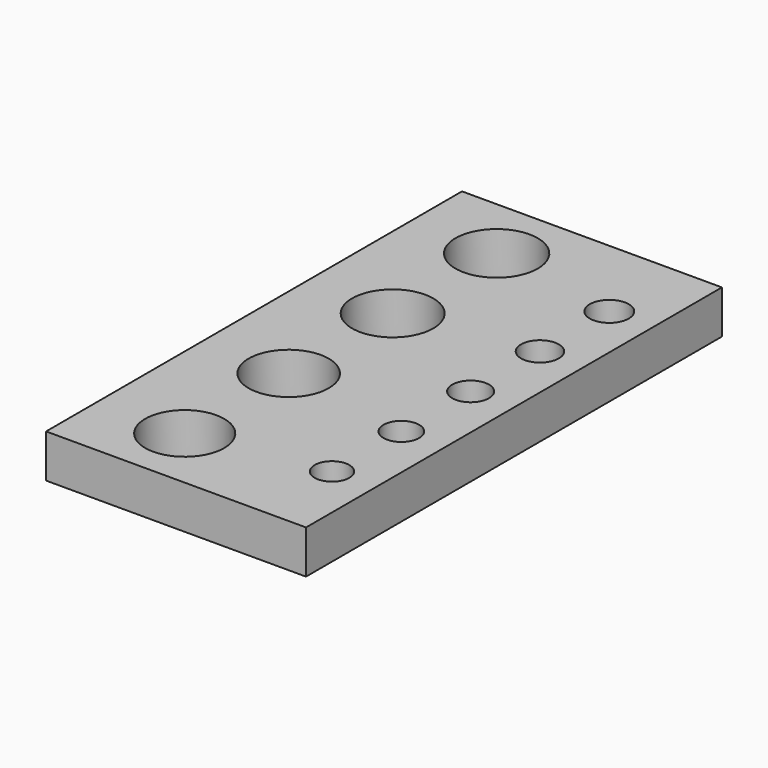
from build123d import *

# Parameters (mm, degrees)
F0_W     = 30
F0_H     = 60
F1_DEPTH = 5
F2_R     = 4.75
F2_R_2   = 4.6875
F2_R_3   = 4.625
F2_R_4   = 4.5625
F2_R_5   = 2
F2_R_6   = 2.0625
F2_R_7   = 2.125
F2_R_8   = 2.1875
F2_R_9   = 2.25
F3_DEPTH = 5.001


with BuildPart() as f1:
    # F0 (on Top) → F1 (new body)
    with BuildSketch(Plane.XY):
        with Locations((-5, 0)):
            Rectangle(F0_W, F0_H)
    extrude(amount=F1_DEPTH)

    # F2 (on face) → F3 (cut, through all)
    with BuildSketch(Plane.XY.offset(5)):
        with Locations((-10, 22.5)):
            Circle(F2_R)
        with Locations((-10, 7.5)):
            Circle(F2_R_2)
        with Locations((-10, -7.5)):
            Circle(F2_R_3)
        with Locations((-10, -22.5)):
            Circle(F2_R_4)
        with Locations((5, -20)):
            Circle(F2_R_5)
        with Locations((5, -10)):
            Circle(F2_R_6)
        with Locations((5, 0)):
            Circle(F2_R_7)
        with Locations((5, 10)):
            Circle(F2_R_8)
        with Locations((5, 20)):
            Circle(F2_R_9)
    extrude(amount=-F3_DEPTH, mode=Mode.SUBTRACT)


solid = f1.part
